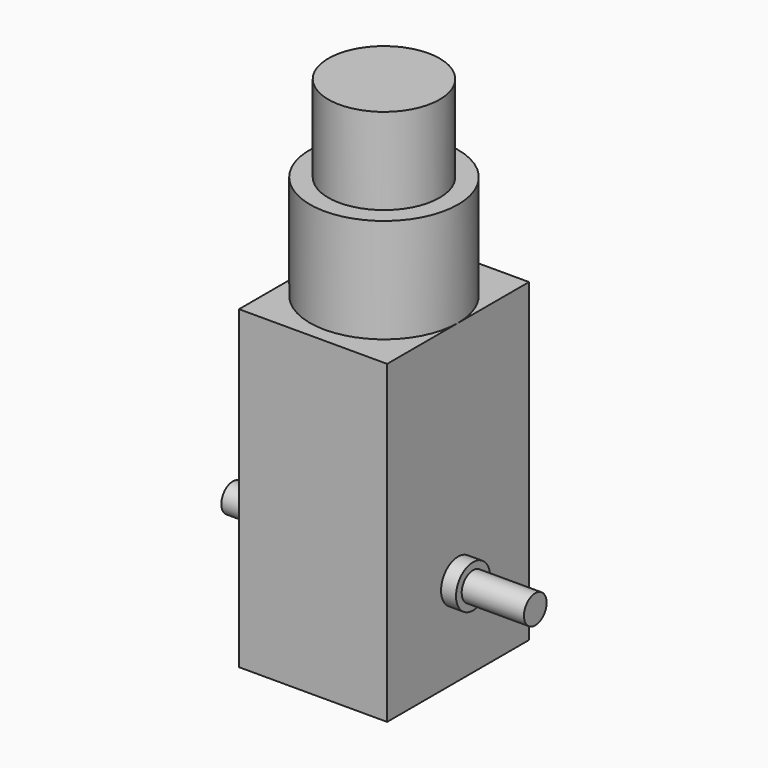
from build123d import *

# Parameters (mm, degrees)
F0_W     = 18.8
F0_H     = 22.5
F1_DEPTH = 40


with BuildPart() as f1:
    # F0 (on Top) → F1 (new body)
    with BuildSketch(Plane.XY):
        Rectangle(F0_W, F0_H)
    extrude(amount=F1_DEPTH)

    # F2 (on Front) → F3 (revolve)
    with BuildSketch(Plane.XZ):
        Polygon((7.063377, 64.2), (0, 64.2), (0, 40), (9.4, 40), (9.4, 53.229246), (7.063377, 53.229246), align=None)
    revolve(axis=Axis((0, 0, 52.1), (0, 0, -1)))

    # F4 (on Front) → F5 (revolve)
    with BuildSketch(Plane.XZ):
        Polygon((11.3, 13.9), (9.4, 13.9), (9.4, 11.2), (19.2, 11.2), (19.2, 13), (11.3, 13), align=None)
        Polygon((-19.2, 11.2), (-9.4, 11.2), (-9.4, 13.9), (-11.3, 13.9), (-11.3, 13), (-19.2, 13), align=None)
    revolve(axis=Axis((-0.119775, 0, 11.2), (1, 0, 0)))


solid = f1.part
